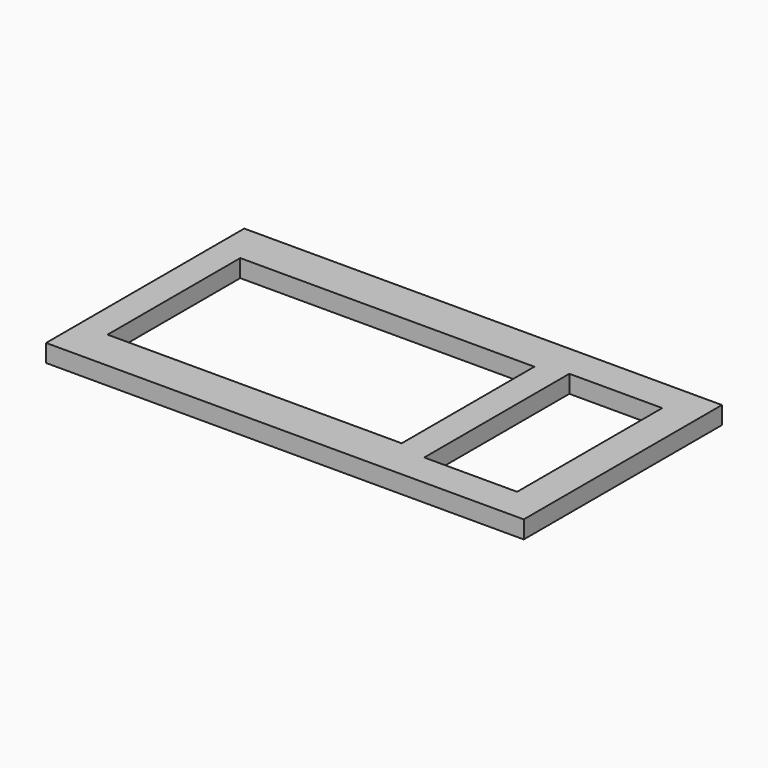
from build123d import *

# Parameters (mm, degrees)
F0_W     = 685.8
F0_H     = 355.6
F0_W_2   = 133.35
F0_H_2   = 260.35
F0_W_3   = 422.275
F0_H_3   = 238.0996
F1_DEPTH = 25.4


with BuildPart() as f1:
    # F0 (on Top) → F1 (new body)
    with BuildSketch(Plane.XY):
        with Locations((-5.43901, 12.261273)):
            Rectangle(F0_W, F0_H)
        with Locations((223.16099, 12.261273)):
            Rectangle(F0_W_2, F0_H_2, mode=Mode.SUBTRACT)
        with Locations((-95.92651, 12.261273)):
            Rectangle(F0_W_3, F0_H_3, mode=Mode.SUBTRACT)
    extrude(amount=F1_DEPTH)


solid = f1.part
